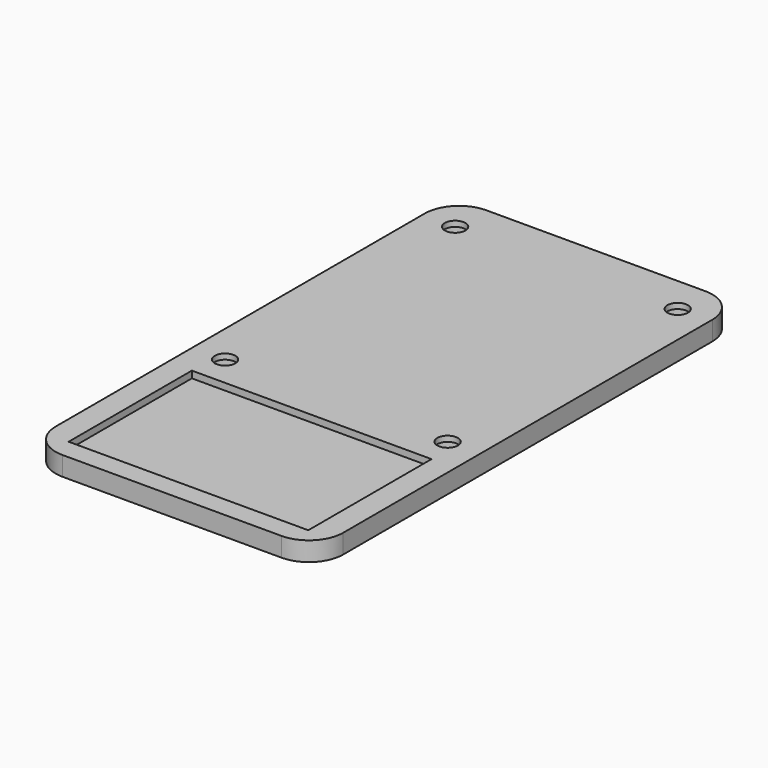
from build123d import *

# Parameters (mm, degrees)
F0_R     = 3
F0_R_2   = 1.5
F1_DEPTH = 2.8
F2_DEPTH = 2
F3_W     = 35
F3_H     = 22.5
F4_DEPTH = 1


with BuildPart() as f1:
    # F0 (on Top) → F1 (new body)
    with BuildSketch(Plane.XY):
        with BuildLine():
            Line((16, 38.7), (-16, 38.7))
            ThreePointArc((-16, 38.7), (-19.535534, 37.235534), (-21, 33.7))
            Line((-21, 33.7), (-21, -33.7))
            ThreePointArc((-21, -33.7), (-19.535534, -37.235534), (-16, -38.7))
            Line((-16, -38.7), (16, -38.7))
            ThreePointArc((16, -38.7), (19.535534, -37.235534), (21, -33.7))
            Line((21, -33.7), (21, 33.7))
            ThreePointArc((21, 33.7), (19.535534, 37.235534), (16, 38.7))
        make_face()
        with Locations((-16.25, -8.7)):
            Circle(F0_R, mode=Mode.SUBTRACT)
        with BuildLine():
            ThreePointArc((19.25, -8.7), (16.25, -11.7), (13.25, -8.7))
            ThreePointArc((13.25, -8.7), (16.25, -5.7), (19.25, -8.7))
        make_face(mode=Mode.SUBTRACT)
        with Locations((-16.25, 33.3)):
            Circle(F0_R, mode=Mode.SUBTRACT)
        with BuildLine():
            ThreePointArc((19.25, 33.3), (16.25, 30.3), (13.25, 33.3))
            ThreePointArc((13.25, 33.3), (16.25, 36.3), (19.25, 33.3))
        make_face(mode=Mode.SUBTRACT)
        with Locations((-16.25, 33.3)):
            Circle(F0_R)
        with Locations((-16.25, 33.3)):
            Circle(F0_R_2, mode=Mode.SUBTRACT)
        with BuildLine():
            ThreePointArc((19.25, 33.3), (16.25, 36.3), (13.25, 33.3))
            ThreePointArc((13.25, 33.3), (16.25, 30.3), (19.25, 33.3))
        make_face()
        with BuildLine():
            ThreePointArc((17.75, 33.3), (16.25, 31.8), (14.75, 33.3))
            ThreePointArc((14.75, 33.3), (16.25, 34.8), (17.75, 33.3))
        make_face(mode=Mode.SUBTRACT)
        with Locations((-16.25, -8.7)):
            Circle(F0_R)
        with Locations((-16.25, -8.7)):
            Circle(F0_R_2, mode=Mode.SUBTRACT)
        with BuildLine():
            ThreePointArc((19.25, -8.7), (16.25, -5.7), (13.25, -8.7))
            ThreePointArc((13.25, -8.7), (16.25, -11.7), (19.25, -8.7))
        make_face()
        with BuildLine():
            ThreePointArc((17.75, -8.7), (16.25, -10.2), (14.75, -8.7))
            ThreePointArc((14.75, -8.7), (16.25, -7.2), (17.75, -8.7))
        make_face(mode=Mode.SUBTRACT)
    extrude(amount=F1_DEPTH)

    # F0 (on Top) → F2 (cut)
    with BuildSketch(Plane.XY):
        with BuildLine():
            ThreePointArc((19.25, 33.3), (16.25, 36.3), (13.25, 33.3))
            ThreePointArc((13.25, 33.3), (16.25, 30.3), (19.25, 33.3))
        make_face()
        with BuildLine():
            ThreePointArc((17.75, 33.3), (16.25, 31.8), (14.75, 33.3))
            ThreePointArc((14.75, 33.3), (16.25, 34.8), (17.75, 33.3))
        make_face(mode=Mode.SUBTRACT)
        with Locations((-16.25, 33.3)):
            Circle(F0_R)
        with Locations((-16.25, 33.3)):
            Circle(F0_R_2, mode=Mode.SUBTRACT)
        with BuildLine():
            ThreePointArc((19.25, -8.7), (16.25, -5.7), (13.25, -8.7))
            ThreePointArc((13.25, -8.7), (16.25, -11.7), (19.25, -8.7))
        make_face()
        with BuildLine():
            ThreePointArc((17.75, -8.7), (16.25, -10.2), (14.75, -8.7))
            ThreePointArc((14.75, -8.7), (16.25, -7.2), (17.75, -8.7))
        make_face(mode=Mode.SUBTRACT)
        with Locations((-16.25, -8.7)):
            Circle(F0_R)
        with Locations((-16.25, -8.7)):
            Circle(F0_R_2, mode=Mode.SUBTRACT)
    extrude(amount=F2_DEPTH, mode=Mode.SUBTRACT)

    # F3 (on face) → F4 (cut)
    with BuildSketch(Plane.XY.offset(2.8)):
        with Locations((0, -24.45)):
            Rectangle(F3_W, F3_H)
    extrude(amount=-F4_DEPTH, mode=Mode.SUBTRACT)


solid = f1.part
